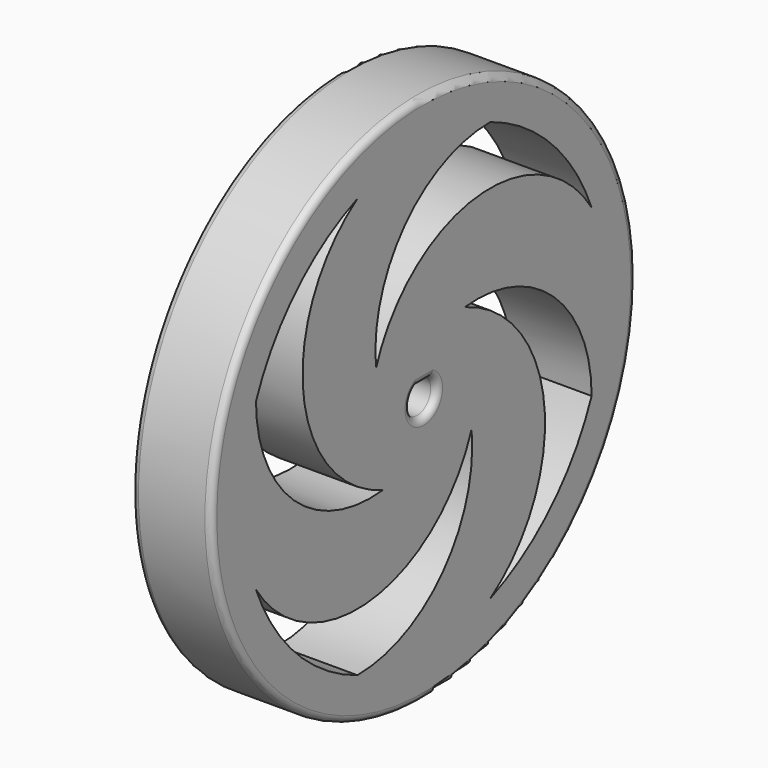
from build123d import *

# Parameters (mm, degrees)
SKETCH051_R     = 40
PAD040_DEPTH    = 12
POCKET008_DEPTH = 12
FILLET002_R     = 1


with BuildPart() as part:
    # Sketch051 → Pad040 (new body)
    with BuildSketch(Plane.YZ.offset(67.95)):
        Circle(SKETCH051_R)
        with BuildLine():
            ThreePointArc((-1.4005, 2.125), (0, -2.545), (1.4005, 2.125))
            Line((-1.4005, 2.125), (1.4005, 2.125))
        make_face(mode=Mode.SUBTRACT)
    extrude(amount=PAD040_DEPTH)

    # Sketch052 (on Face5 of Pad040) → Pocket008 (cut)
    with BuildSketch(Plane.YZ.offset(79.95)):
        with BuildLine():
            ThreePointArc((-12.5, 31.618824), (-24.041631, 24.041631), (-31.618824, 12.5))
            ThreePointArc((-31.618824, 12.5), (-24.458371, -3.572618), (-7.720294, -8.99829))
            ThreePointArc((-12.5, 31.618824), (-22.685955, 9.830382), (-7.720294, -8.99829))
        make_face()
        with BuildLine():
            ThreePointArc((31.618824, 12.5), (24.041631, 24.041631), (12.5, 31.618824))
            ThreePointArc((12.5, 31.618824), (-3.572618, 24.458371), (-8.99829, 7.720294))
            ThreePointArc((31.618824, 12.5), (9.830382, 22.685955), (-8.99829, 7.720294))
        make_face()
        with BuildLine():
            ThreePointArc((12.5, -31.618824), (24.041631, -24.041631), (31.618824, -12.5))
            ThreePointArc((31.618824, -12.5), (24.458371, 3.572618), (7.720294, 8.99829))
            ThreePointArc((12.5, -31.618824), (22.685955, -9.830382), (7.720294, 8.99829))
        make_face()
        with BuildLine():
            ThreePointArc((-31.618824, -12.5), (-24.041631, -24.041631), (-12.5, -31.618824))
            ThreePointArc((-12.5, -31.618824), (3.572618, -24.458371), (8.99829, -7.720294))
            ThreePointArc((-31.618824, -12.5), (-9.830382, -22.685955), (8.99829, -7.720294))
        make_face()
    extrude(amount=-POCKET008_DEPTH, mode=Mode.SUBTRACT)

    # Fillet002
    fillet002_edges = [part.edges().sort_by_distance(p)[0] for p in [
        (67.95, 0, 2.125),
        (67.95, 0, -2.545),
        (67.95, -40, 0),
        (79.95, -40, 0),
        (79.95, 0, 2.125),
        (79.95, 0, -2.545),
    ]]
    fillet(fillet002_edges, radius=FILLET002_R)


solid = part.part
